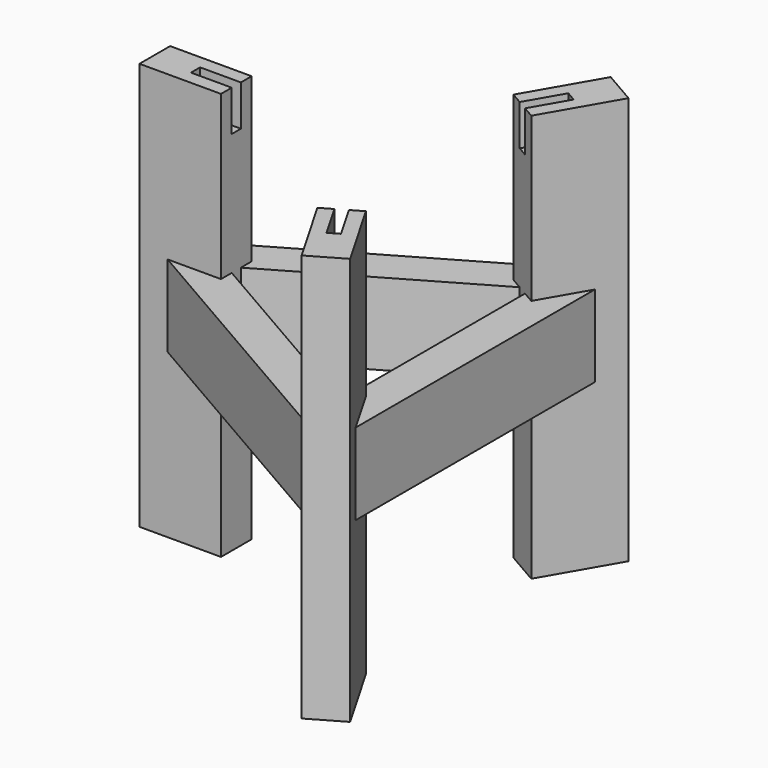
from build123d import *

# Parameters (mm, degrees)
F0_W      = 100
F0_H      = 47
F1_DEPTH  = 500
F3_W      = 50
F3_H      = 14
F4_DEPTH  = 50
F5_COUNT  = 3
F8_DEPTH  = 100
F10_COUNT = 3


with BuildPart() as f1:
    # F0 (on Top) → F1 (new body)
    with BuildSketch(Plane.XY):
        with Locations((-210, 0)):
            Rectangle(F0_W, F0_H)
    extrude(amount=F1_DEPTH)

    # F3 (on face) → F4 (cut)
    with BuildSketch(Plane.XY.offset(500)):
        with Locations((-185, 0)):
            Rectangle(F3_W, F3_H)
    extrude(amount=-F4_DEPTH, mode=Mode.SUBTRACT)


with BuildPart() as f5_1:
    # F5: instance of F1
    add(f1.part.rotate(Axis((0, 0, 90.224043), (0, 0, 1)), 1 * 360 / F5_COUNT))


with BuildPart() as f5_2:
    # F5: instance of F1
    add(f1.part.rotate(Axis((0, 0, 90.224043), (0, 0, 1)), 2 * 360 / F5_COUNT))


with BuildPart() as f8:
    # F7 (on offset) → F8 (new body)
    with BuildSketch(Plane.XY.offset(200)):
        Polygon((115.858984, 166.267259), (92.358984, 206.970453), (-225.421162, 23.5), (-201.921162, -17.203194), align=None)
    extrude(amount=F8_DEPTH)

    # F9: cut F1, F5_2
    add(f1.part, mode=Mode.SUBTRACT)
    add(f5_2.part, mode=Mode.SUBTRACT)


with BuildPart() as f10_1:
    # F10: instance of F8
    add(f8.part.rotate(Axis((0, 0, 90.224043), (0, 0, 1)), 1 * 360 / F10_COUNT))


with BuildPart() as f10_2:
    # F10: instance of F8
    add(f8.part.rotate(Axis((0, 0, 90.224043), (0, 0, 1)), 2 * 360 / F10_COUNT))


solid = Compound([f1.part, f5_1.part, f5_2.part, f8.part, f10_1.part, f10_2.part])
